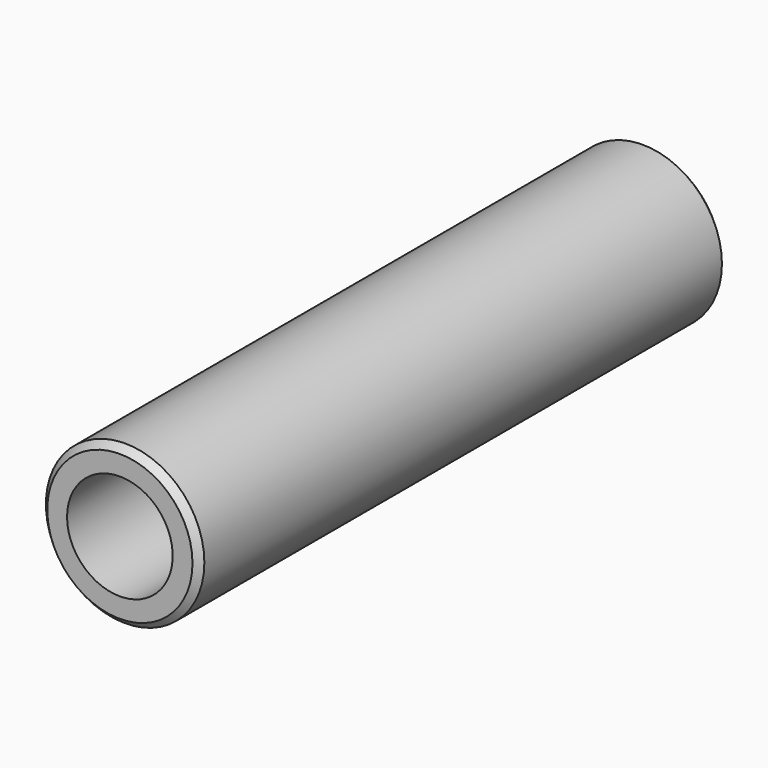
from build123d import *

# Parameters (mm, degrees)
F0_R     = 76.2
F1_DEPTH = 635
F3_D     = 101.6
F4_SIZE  = 6.35
F5_SIZE  = 6.35


with BuildPart() as f1:
    # F0 (on Front) → F1 (new body)
    with BuildSketch(Plane.XZ):
        Circle(F0_R)
    extrude(amount=F1_DEPTH)

    # F3 (through all)
    with Locations(Plane.XZ.offset(635)):
        with Locations((0, 0)):
            Hole(F3_D / 2)

    # F4
    f4_edges = [f1.edges().sort_by_distance(p)[0] for p in [
        (-76.2, -635, 0),
    ]]
    chamfer(f4_edges, length=F4_SIZE)

    # F5
    f5_edges = [f1.edges().sort_by_distance(p)[0] for p in [
        (-76.2, 0, 0),
    ]]
    chamfer(f5_edges, length=F5_SIZE)


solid = f1.part
